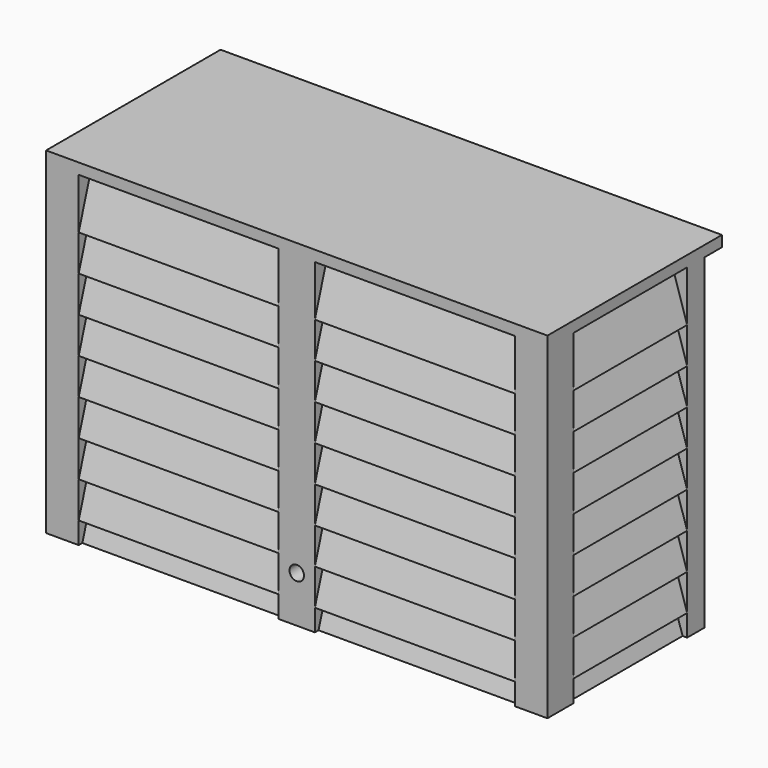
from build123d import *

# Parameters (mm, degrees)
SKETCH021_R           = 2.05
EXTRUDE024_DEPTH      = 3
EXTRUDE024_DEPTH_BACK = 9
SKETCH023_W           = 2
SKETCH023_H           = 6
EXTRUDE026_DEPTH      = 74
SKETCH019_R           = 6
EXTRUDE023_DEPTH      = 3
EXTRUDE_DEPTH         = 85
SKETCH024_R           = 3
EXTRUDE027_DEPTH      = 5
SKETCH014_W           = 120
SKETCH014_H           = 45
SKETCH014_R           = 5
SKETCH014_R_2         = 4
EXTRUDE016_DEPTH      = 2.8
SKETCH020_R           = 2.05
EXTRUDE022_DEPTH      = 10
SKETCH015_W           = 10
SKETCH015_H           = 7
EXTRUDE017_DEPTH      = 10
EXTRUDE030_DEPTH      = 10
EXTRUDE034_DEPTH      = 15
SKETCH022_R           = 2
EXTRUDE025_DEPTH      = 10
EXTRUDE031_DEPTH      = 60.2
EXTRUDE032_DEPTH      = 39.2
EXTRUDE033_DEPTH      = 48.2
BOX_W                 = 138.4
BOX_H                 = 60.2
BOX_DEPTH             = 3
SKETCH016_W           = 9
SKETCH016_H           = 9
SKETCH016_W_2         = 10
EXTRUDE018_DEPTH      = 93


with BuildPart() as part_1_pcb_secure_screw_holes:
    # Sketch021 (on Face12 of Extrude) → Extrude024 (new body, two sides)
    with BuildSketch(Plane.XZ.offset(-10)) as extrude024_sk:
        with Locations((-29.25, 45)):
            Circle(SKETCH021_R)
        with Locations((29.25, 45)):
            Circle(SKETCH021_R)
    extrude(amount=EXTRUDE024_DEPTH)
    extrude(extrude024_sk.sketch, amount=-EXTRUDE024_DEPTH_BACK)


with BuildPart() as fusion006:
    # Sketch023 → Extrude026 (new body)
    with BuildSketch(Plane.YZ.offset(37)):
        with Locations((18, 8)):
            Rectangle(SKETCH023_W, SKETCH023_H)
        with Locations((18, 77)):
            Rectangle(SKETCH023_W, SKETCH023_H)
    extrude(amount=-EXTRUDE026_DEPTH)

    # Fusion006: union Part 1 PCB secure screw holes
    add(part_1_pcb_secure_screw_holes.part)


with BuildPart() as pcb_standoffs:
    # Sketch019 → Extrude023 (new body)
    with BuildSketch(Plane.XZ.offset(-10)):
        with Locations((-29.25, 45)):
            Circle(SKETCH019_R)
        with Locations((29.25, 45)):
            Circle(SKETCH019_R)
    extrude(amount=EXTRUDE023_DEPTH)


with BuildPart() as cut003:
    # Sketch → Extrude (new body)
    with BuildSketch(Plane.XY):
        Polygon((-60, 16), (-37, 16), (-37, 22), (-22, 22), (-22, 16), (22, 16), (22, 22), (37, 22), (37, 16), (60, 16), (63, 13), (60, 10), (-60, 10), (-63, 13), align=None)
    extrude(amount=EXTRUDE_DEPTH)

    # Fusion: union PCB standoffs
    add(pcb_standoffs.part)

    # Cut003: cut Fusion006
    add(fusion006.part, mode=Mode.SUBTRACT)


with BuildPart() as part_1_antenna_hole:
    # Sketch024 → Extrude027 (new body, symmetric)
    with BuildSketch(Plane.XY.offset(2.8)):
        with Locations((13, -8)):
            Circle(SKETCH024_R)
    extrude(amount=EXTRUDE027_DEPTH, both=True)


with BuildPart() as cut002:
    # Sketch014 → Extrude016 (new body)
    with BuildSketch(Plane.XY):
        with Locations((0, -6.5)):
            Rectangle(SKETCH014_W, SKETCH014_H)
        with Locations((-37.5, -6.5)):
            Circle(SKETCH014_R, mode=Mode.SUBTRACT)
        with Locations((37.5, -6.5)):
            Circle(SKETCH014_R, mode=Mode.SUBTRACT)
        with Locations((-12, -10)):
            Circle(SKETCH014_R_2, mode=Mode.SUBTRACT)
    extrude(amount=EXTRUDE016_DEPTH)

    # Cut002: cut Part 1 Antenna hole
    add(part_1_antenna_hole.part, mode=Mode.SUBTRACT)


with BuildPart() as part_1_front_securing_screw_hole:
    # Sketch020 → Extrude022 (new body)
    with BuildSketch(Plane.XZ.offset(29)):
        with Locations((0, 7.8)):
            Circle(SKETCH020_R)
    extrude(amount=-EXTRUDE022_DEPTH)


with BuildPart() as cut:
    # Sketch015 (on Face9 of Extrude016) → Extrude017 (new body)
    with BuildSketch(Plane.XY.offset(2.8)):
        with Locations((0, -25.5)):
            Rectangle(SKETCH015_W, SKETCH015_H)
    extrude(amount=EXTRUDE017_DEPTH)

    # Cut: cut Part 1 front securing screw hole
    add(part_1_front_securing_screw_hole.part, mode=Mode.SUBTRACT)


with BuildPart() as part_1_base_cable_ties:
    # Sketch025 → Extrude030 (new body)
    with BuildSketch(Plane.XY.offset(2.8)):
        with BuildLine():
            ThreePointArc((14.8, -5.6), (13, -5), (11.2, -5.6))
            Line((11.2, -5.6), (9, -5.6))
            ThreePointArc((7, -3.6), (7.585786, -5.014214), (9, -5.6))
            Line((7, -3.6), (7, -1.6))
            ThreePointArc((9, 0.4), (7.585786, -0.185786), (7, -1.6))
            Line((9, 0.4), (17, 0.4))
            ThreePointArc((19, -1.6), (18.414214, -0.185786), (17, 0.4))
            Line((19, -1.6), (19, -3.6))
            ThreePointArc((17, -5.6), (18.414214, -5.014214), (19, -3.6))
            Line((14.8, -5.6), (17, -5.6))
        make_face()
        with BuildLine():
            Line((-14.645751, -7), (-16, -7))
            ThreePointArc((-18, -5), (-17.414214, -6.414214), (-16, -7))
            Line((-18, -5), (-18, -3))
            ThreePointArc((-16, -1), (-17.414214, -1.585786), (-18, -3))
            Line((-16, -1), (-8, -1))
            ThreePointArc((-6, -3), (-6.585786, -1.585786), (-8, -1))
            Line((-6, -5), (-6, -3))
            ThreePointArc((-8, -7), (-6.585786, -6.414214), (-6, -5))
            Line((-9.354249, -7), (-8, -7))
            ThreePointArc((-9.354249, -7), (-12, -6), (-14.645751, -7))
        make_face()
    extrude(amount=EXTRUDE030_DEPTH)


with BuildPart() as fusion009:
    # Sketch026 → Extrude034 (new body, symmetric)
    with BuildSketch(Plane.YZ):
        Polygon((3.5, 19.7), (0.6, 19.7), (0.6, 14.7), (10, 14.699963), (10, 19.7), (7.1, 19.7), (7.1, 17.3), (3.5, 17.3), align=None)
        Polygon((10, 75.3), (0.6, 75.3), (0.6, 70.3), (3.5, 70.3), (3.5, 72.7), (7.1, 72.7), (7.1, 70.3), (10, 70.3), align=None)
    extrude(amount=EXTRUDE034_DEPTH, both=True)

    # Fusion009: union Cut003, Cut002, Cut, Part 1 base cable ties
    add(cut003.part)
    add(cut002.part)
    add(cut.part)
    add(part_1_base_cable_ties.part)


with BuildPart() as part_2_front_screw_hole:
    # Sketch022 (on Face1 of Extrude018) → Extrude025 (new body)
    with BuildSketch(Plane(origin=(0, -29.2, 0), x_dir=(-1, 0, 0), z_dir=(0, 1, 0))):
        with Locations((0, 7.8)):
            Circle(SKETCH022_R)
    extrude(amount=-EXTRUDE025_DEPTH)


with BuildPart() as front_slats:
    # Sketch027 → Extrude031 (new body, symmetric)
    with BuildSketch(Plane.YZ):
        Polygon((-38.2, 71), (-32.839702, 88), (-29.2, 78), (-30.327631, 77.589576), (-32.758286, 84.267745), (-37.055544, 70.63914), align=None)
        Polygon((-32.839702, 78), (-29.2, 68), (-30.327631, 67.589576), (-32.758286, 74.267745), (-37.055544, 60.63914), (-38.2, 61), align=None)
        Polygon((-32.839702, 68), (-29.2, 58), (-30.327631, 57.589576), (-32.758286, 64.267745), (-37.055544, 50.63914), (-38.2, 51), align=None)
        Polygon((-32.839702, 58), (-29.2, 48), (-30.327631, 47.589576), (-32.758286, 54.267745), (-37.055544, 40.63914), (-38.2, 41), align=None)
        Polygon((-32.839702, 48), (-29.2, 38), (-30.327631, 37.589576), (-32.758286, 44.267745), (-37.055544, 30.63914), (-38.2, 31), align=None)
        Polygon((-32.839702, 38), (-29.2, 28), (-30.327631, 27.589576), (-32.758286, 34.267745), (-37.055544, 20.63914), (-38.2, 21), align=None)
        Polygon((-32.839702, 28), (-29.2, 18), (-30.327631, 17.589576), (-32.758286, 24.267745), (-37.055544, 10.63914), (-38.2, 11), align=None)
        Polygon((-32.839702, 18), (-29.2, 8), (-30.327631, 7.589576), (-32.758286, 14.267745), (-37.055544, 0.63914), (-38.2, 1), align=None)
        Polygon((-32.839702, 8), (-29.2, -2), (-30.327631, -2.410424), (-32.758286, 4.267745), (-35.680514, -5), (-36.938753, -5), align=None)
    extrude(amount=EXTRUDE031_DEPTH, both=True)


with BuildPart() as right_side_slats:
    # Sketch028 (on Face1 of Extrude018) → Extrude032 (new body)
    with BuildSketch(Plane(origin=(0, -29.2, 0), x_dir=(-1, 0, 0), z_dir=(0, 1, 0))):
        Polygon((-69.2, 71), (-63.839702, 88), (-60.2, 78), (-61.327631, 77.589576), (-63.758286, 84.267745), (-68.055544, 70.63914), align=None)
        Polygon((-63.839702, 78), (-60.2, 68), (-61.327631, 67.589576), (-63.758286, 74.267745), (-68.055544, 60.63914), (-69.2, 61), align=None)
        Polygon((-63.839702, 68), (-60.2, 58), (-61.327631, 57.589576), (-63.758286, 64.267745), (-68.055544, 50.63914), (-69.2, 51), align=None)
        Polygon((-63.839702, 58), (-60.2, 48), (-61.327631, 47.589576), (-63.758286, 54.267745), (-68.055544, 40.63914), (-69.2, 41), align=None)
        Polygon((-63.839702, 48), (-60.2, 38), (-61.327631, 37.589576), (-63.758286, 44.267745), (-68.055544, 30.63914), (-69.2, 31), align=None)
        Polygon((-63.839702, 38), (-60.2, 28), (-61.327631, 27.589576), (-63.758286, 34.267745), (-68.055544, 20.63914), (-69.2, 21), align=None)
        Polygon((-63.839702, 28), (-60.2, 18), (-61.327631, 17.589576), (-63.758286, 24.267745), (-68.055544, 10.63914), (-69.2, 11), align=None)
        Polygon((-63.839702, 18), (-60.2, 8), (-61.327631, 7.589576), (-63.758286, 14.267745), (-68.055544, 0.63914), (-69.2, 1), align=None)
        Polygon((-63.839702, 8), (-60.2, -2), (-61.327631, -2.410424), (-63.758286, 4.267745), (-66.680514, -5), (-67.938753, -5), align=None)
    extrude(amount=EXTRUDE032_DEPTH)


with BuildPart() as left_side_slats:
    # Sketch029 (on Face9 of Extrude018) → Extrude033 (new body)
    with BuildSketch(Plane.XZ.offset(38.2)):
        Polygon((-69.2, 71), (-63.839702, 88), (-60.2, 78), (-61.327631, 77.589576), (-63.758286, 84.267745), (-68.055544, 70.63914), align=None)
        Polygon((-63.839702, 78), (-60.2, 68), (-61.327631, 67.589576), (-63.758286, 74.267745), (-68.055544, 60.63914), (-69.2, 61), align=None)
        Polygon((-63.839702, 68), (-60.2, 58), (-61.327631, 57.589576), (-63.758286, 64.267745), (-68.055544, 50.63914), (-69.2, 51), align=None)
        Polygon((-63.839702, 58), (-60.2, 48), (-61.327631, 47.589576), (-63.758286, 54.267745), (-68.055544, 40.63914), (-69.2, 41), align=None)
        Polygon((-63.839702, 48), (-60.2, 38), (-61.327631, 37.589576), (-63.758286, 44.267745), (-68.055544, 30.63914), (-69.2, 31), align=None)
        Polygon((-63.839702, 38), (-60.2, 28), (-61.327631, 27.589576), (-63.758286, 34.267745), (-68.055544, 20.63914), (-69.2, 21), align=None)
        Polygon((-63.839702, 28), (-60.2, 18), (-61.327631, 17.589576), (-63.758286, 24.267745), (-68.055544, 10.63914), (-69.2, 11), align=None)
        Polygon((-63.839702, 18), (-60.2, 8), (-61.327631, 7.589576), (-63.758286, 14.267745), (-68.055544, 0.63914), (-69.2, 1), align=None)
        Polygon((-63.839702, 8), (-60.2, -2), (-61.327631, -2.410424), (-63.758286, 4.267745), (-66.680514, -5), (-67.938753, -5), align=None)
    extrude(amount=-EXTRUDE033_DEPTH)


with BuildPart() as roof:
    # Box → Box (new body)
    with BuildSketch(Plane(origin=(-69.2, -38.2, 85), x_dir=(1, 0, 0), z_dir=(0, 0, 1))):
        with Locations((69.2, 30.1)):
            Rectangle(BOX_W, BOX_H)
    extrude(amount=BOX_DEPTH)


with BuildPart() as cut004:
    # Sketch016 → Extrude018 (new body)
    with BuildSketch(Plane.XY.offset(-5)):
        Polygon((69.2, 16), (60.2, 16), (63.2, 13), (60.2, 10), (69.2, 10), align=None)
        Polygon((-60.2, 16), (-69.2, 16), (-69.2, 10), (-60.2, 10), (-63.2, 13), align=None)
        with Locations((-64.7, -33.7)):
            Rectangle(SKETCH016_W, SKETCH016_H)
        with Locations((0, -33.7)):
            Rectangle(SKETCH016_W_2, SKETCH016_H)
        with Locations((64.7, -33.7)):
            Rectangle(SKETCH016_W, SKETCH016_H)
    extrude(amount=EXTRUDE018_DEPTH)

    # Fusion008: union Front slats, Right side slats, Left side slats, Roof
    add(front_slats.part)
    add(right_side_slats.part)
    add(left_side_slats.part)
    add(roof.part)

    # Cut004: cut Part 2 front screw hole
    add(part_2_front_screw_hole.part, mode=Mode.SUBTRACT)


solid = Compound([fusion009.part, cut004.part])
